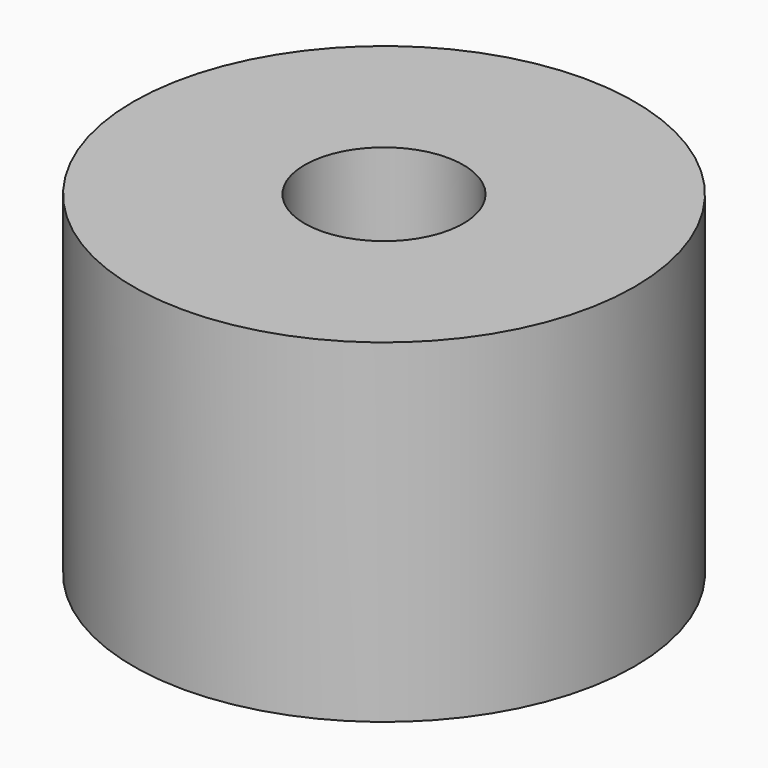
from build123d import *

# Parameters (mm, degrees)
F0_R     = 38.110254
F1_DEPTH = 50.8
F2_R     = 36.885963
F2_R_2   = 13.436762
F3_DEPTH = 15.24
F5_D     = 24.13


with BuildPart() as f1:
    # F0 (on Top) → F1 (new body)
    with BuildSketch(Plane.XY):
        Circle(F0_R)
    extrude(amount=F1_DEPTH)

    # F2 (on Top) → F3 (cut)
    with BuildSketch(Plane.XY):
        Circle(F2_R)
        Circle(F2_R_2, mode=Mode.SUBTRACT)
    extrude(amount=F3_DEPTH, mode=Mode.SUBTRACT)

    # F5 (through all)
    with Locations(Plane(origin=(0, 0, 0), x_dir=(1, 0, 0), z_dir=(0, 0, -1))):
        with Locations((0, 0)):
            Hole(F5_D / 2)


solid = f1.part
